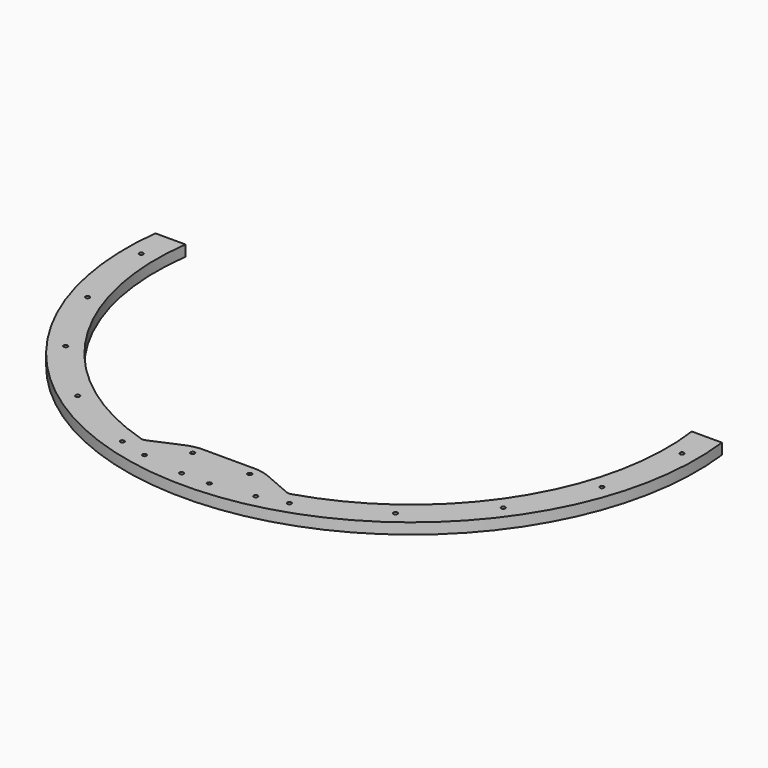
from build123d import *

# Parameters (mm, degrees)
F1_DEPTH = 8
F2_R     = 1.5
F3_DEPTH = 8.001
F4_R     = 28.523991
F5_R     = 5


with BuildPart() as f1:
    # F0 (on Top) → F1 (new body)
    with BuildSketch(Plane.XY):
        with BuildLine():
            ThreePointArc((-53.434796, -180.246283), (-157.807923, -102.179545), (-186.330352, 25))
            Line((-186.330352, 25), (-208.506595, 25))
            ThreePointArc((-208.506595, 25), (0, -210), (208.506595, 25))
            Line((208.506595, 25), (186.330352, 25))
            ThreePointArc((186.330352, 25), (157.807923, -102.179545), (53.434796, -180.246283))
            Line((53.434796, -180.246283), (25, -168))
            Line((25, -168), (0, -168))
            Line((0, -168), (-25, -168))
            Line((-25, -168), (-53.434796, -180.246283))
        make_face()
    extrude(amount=F1_DEPTH)

    # F2 (on face) → F3 (cut, through all)
    with BuildSketch(Plane.XY.offset(8)):
        with Locations((-61.492936, -189.111742)):
            Circle(F2_R)
        with Locations((-116.970716, -160.851562)):
            Circle(F2_R)
        with Locations((-161.000343, -116.830956)):
            Circle(F2_R)
        with Locations((-189.271892, -61.35897)):
            Circle(F2_R)
        with Locations((-199.017947, 0.134414)):
            Circle(F2_R)
        with Locations((61.495827, -189.09914)):
            Circle(F2_R)
        with Locations((116.967814, -160.827591)):
            Circle(F2_R)
        with Locations((160.988419, -116.797963)):
            Circle(F2_R)
        with Locations((189.248599, -61.320184)):
            Circle(F2_R)
        with Locations((198.982051, 0.175196)):
            Circle(F2_R)
        with Locations((-21, -175.002152)):
            Circle(F2_R)
        with Locations((-40.990327, -194.449982)):
            Circle(F2_R)
        with Locations((-10.202835, -198.738276)):
            Circle(F2_R)
        with Locations((21, -174.997848)):
            Circle(F2_R)
        with Locations((10.2077, -198.736184)):
            Circle(F2_R)
        with Locations((40.994312, -194.441581)):
            Circle(F2_R)
    extrude(amount=-F3_DEPTH, mode=Mode.SUBTRACT)

    # F4
    f4_edges = [f1.edges().sort_by_distance(p)[0] for p in [
        (25, -168, 4),
        (-25, -168, 4),
    ]]
    fillet(f4_edges, radius=F4_R)

    # F5
    f5_edges = [f1.edges().sort_by_distance(p)[0] for p in [
        (53.434796, -180.246283, 4),
        (-53.434796, -180.246283, 4),
    ]]
    fillet(f5_edges, radius=F5_R)


solid = f1.part
